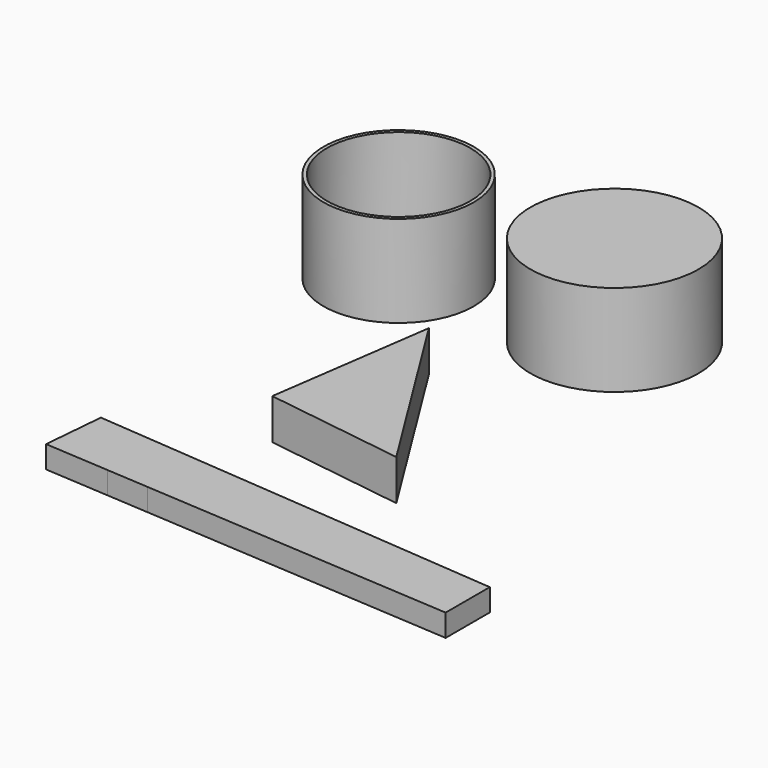
from build123d import *

# Parameters (mm, degrees)
F0_R     = 26.807841
F0_R_2   = 23.979846
F0_R_3   = 22.868274
F1_DEPTH = 29.21
F3_DEPTH = 12.954
F5_DEPTH = 7.112


with BuildPart() as f1:
    # F0 (on Top) → F1 (new body)
    with BuildSketch(Plane.XY):
        with Locations((-9.665625, 13.501139)):
            Circle(F0_R)
        with Locations((-73.136605, 6.788054)):
            Circle(F0_R_2)
        with Locations((-73.136605, 6.788054)):
            Circle(F0_R_3, mode=Mode.SUBTRACT)
    extrude(amount=F1_DEPTH)


with BuildPart() as f3:
    # F2 (on Top) → F3 (new body)
    with BuildSketch(Plane.XY):
        Polygon((2.091387, -88.18549), (-34.998138, -28.811608), (-42.559069, -81.816256), align=None)
    extrude(amount=F3_DEPTH)


with BuildPart() as f5:
    # F4 (on Top) → F5 (new body)
    with BuildSketch(Plane.XY):
        Polygon((57.098739, -119.67203), (-75.658582, -108.768702), (-77.379428, -128.469676), (-56.752082, -129.81913), (-43.319212, -130.697916), (57.098739, -137.267321), align=None)
    extrude(amount=F5_DEPTH)


solid = Compound([f1.part, f3.part, f5.part])
